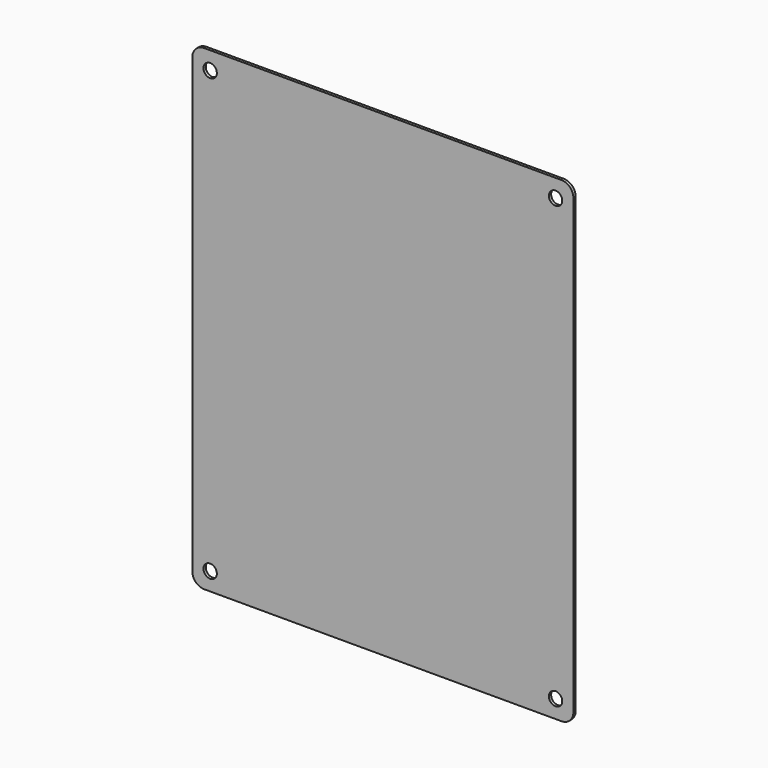
from build123d import *

# Parameters (mm, degrees)
F1_DEPTH = 1.524


with BuildPart() as f1:
    # F0 (on Front) → F1 (new body)
    with BuildSketch(Plane.XZ):
        with BuildLine():
            Line((-97.17259, 212.03665), (-100.34759, 212.03665))
            ThreePointArc((-100.34759, 212.03665), (-104.837718, 210.176778), (-106.69759, 205.68665))
            Line((-106.69759, 205.68665), (-106.69759, 202.51165))
            Line((-106.69759, 202.51165), (-100.74129, 202.51165))
            ThreePointArc((-100.74129, 202.51165), (-99.696042, 205.035102), (-97.17259, 206.08035))
            Line((-97.17259, 206.08035), (-97.17259, 212.03665))
        make_face()
        with BuildLine():
            Line((86.97741, 212.03665), (-97.17259, 212.03665))
            Line((-97.17259, 212.03665), (-97.17259, 206.08035))
            ThreePointArc((-97.17259, 206.08035), (-94.649138, 205.035102), (-93.60389, 202.51165))
            ThreePointArc((-93.60389, 202.51165), (-97.17259, 198.94295), (-100.74129, 202.51165))
            Line((-100.74129, 202.51165), (-106.69759, 202.51165))
            Line((-106.69759, 202.51165), (-106.69759, -32.43835))
            Line((-106.69759, -32.43835), (-100.74129, -32.43835))
            ThreePointArc((-100.74129, -32.43835), (-97.17259, -28.86965), (-93.60389, -32.43835))
            ThreePointArc((-93.60389, -32.43835), (-94.649138, -34.961802), (-97.17259, -36.00705))
            Line((-97.17259, -36.00705), (-97.17259, -41.96335))
            Line((-97.17259, -41.96335), (86.97741, -41.96335))
            Line((86.97741, -41.96335), (86.97741, -36.00705))
            ThreePointArc((86.97741, -36.00705), (84.453958, -29.914898), (90.54611, -32.43835))
            Line((90.54611, -32.43835), (96.50241, -32.43835))
            Line((96.50241, -32.43835), (96.50241, 202.51165))
            Line((96.50241, 202.51165), (90.54611, 202.51165))
            ThreePointArc((90.54611, 202.51165), (84.453958, 199.988198), (86.97741, 206.08035))
            Line((86.97741, 206.08035), (86.97741, 212.03665))
        make_face()
        with BuildLine():
            Line((90.15241, 212.03665), (86.97741, 212.03665))
            Line((86.97741, 212.03665), (86.97741, 206.08035))
            ThreePointArc((86.97741, 206.08035), (89.500862, 205.035102), (90.54611, 202.51165))
            Line((90.54611, 202.51165), (96.50241, 202.51165))
            Line((96.50241, 202.51165), (96.50241, 205.68665))
            ThreePointArc((96.50241, 205.68665), (94.642538, 210.176778), (90.15241, 212.03665))
        make_face()
        with BuildLine():
            Line((-100.74129, -32.43835), (-106.69759, -32.43835))
            Line((-106.69759, -32.43835), (-106.69759, -35.61335))
            ThreePointArc((-106.69759, -35.61335), (-104.837718, -40.103478), (-100.34759, -41.96335))
            Line((-100.34759, -41.96335), (-97.17259, -41.96335))
            Line((-97.17259, -41.96335), (-97.17259, -36.00705))
            ThreePointArc((-97.17259, -36.00705), (-99.696042, -34.961802), (-100.74129, -32.43835))
        make_face()
        with BuildLine():
            Line((96.50241, -35.61335), (96.50241, -32.43835))
            Line((96.50241, -32.43835), (90.54611, -32.43835))
            ThreePointArc((90.54611, -32.43835), (89.500862, -34.961802), (86.97741, -36.00705))
            Line((86.97741, -36.00705), (86.97741, -41.96335))
            Line((86.97741, -41.96335), (90.15241, -41.96335))
            ThreePointArc((90.15241, -41.96335), (94.642538, -40.103478), (96.50241, -35.61335))
        make_face()
    extrude(amount=F1_DEPTH)


solid = f1.part
